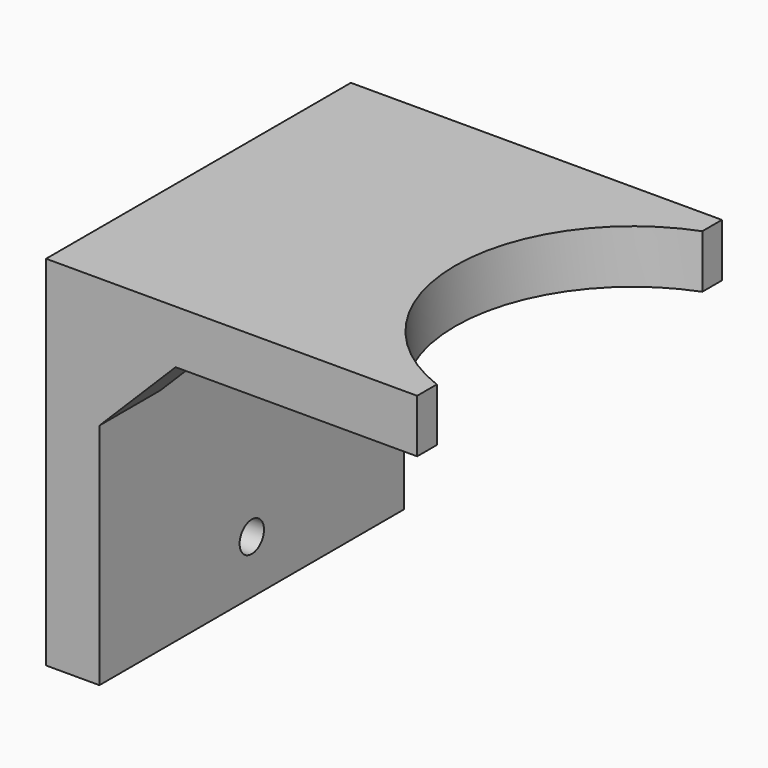
from build123d import *

# Parameters (mm, degrees)
PAD_DEPTH       = 50
SKETCH001_R     = 23.31
POCKET_DEPTH    = 7
SKETCH002_R     = 2
POCKET001_DEPTH = 7
PAD001_DEPTH    = 10


with BuildPart() as part:
    # Sketch → Pad (new body)
    with BuildSketch(Plane.XZ):
        Polygon((-41.7, -27), (-48.7, -27), (-48.7, 20), (0, 20), (0, 13), (-41.7, 13), align=None)
    extrude(amount=-PAD_DEPTH)

    # Sketch001 → Pocket (cut)
    with BuildSketch(Plane(origin=(0, 0, 20), x_dir=(-1, 0, 0), z_dir=(0, 0, 1))):
        with Locations((-8.31, -25)):
            Circle(SKETCH001_R)
    extrude(amount=-POCKET_DEPTH, mode=Mode.SUBTRACT)

    # Sketch002 → Pocket001 (cut)
    with BuildSketch(Plane(origin=(-48.7, 0, 0), x_dir=(0, 0, -1), z_dir=(-1, 0, 0))):
        with Locations((20, -25)):
            Circle(SKETCH002_R)
    extrude(amount=-POCKET001_DEPTH, mode=Mode.SUBTRACT)

    # Sketch003 → Pad001 (new body)
    with BuildSketch(Plane.XZ):
        Polygon((-41.7, 13), (-41.7, 3), (-31.7, 13), align=None)
    extrude(amount=-PAD001_DEPTH)


solid = part.part
